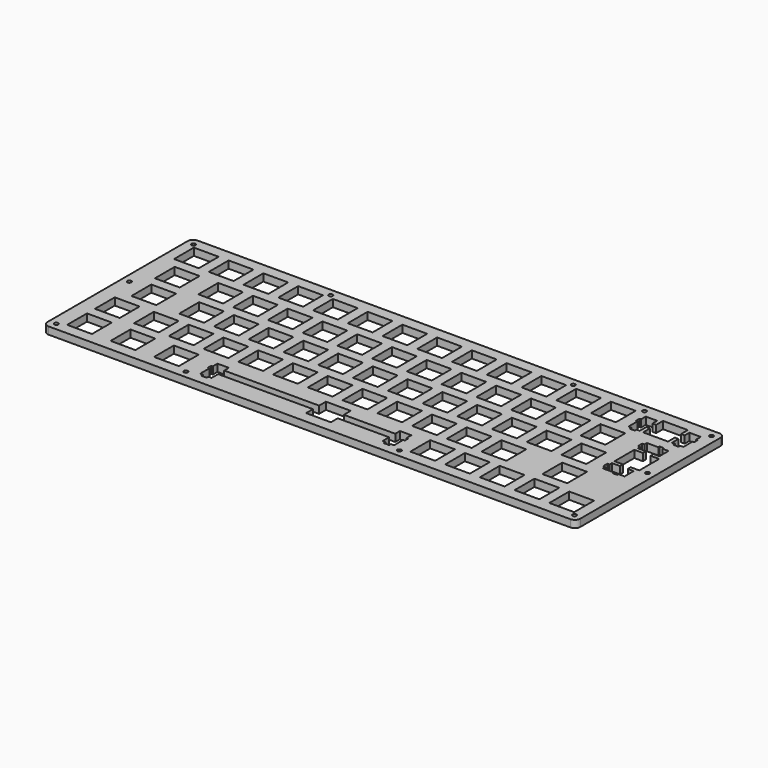
from build123d import *

# Parameters (mm, degrees)
F0_R     = 1.1
F1_DEPTH = 4
F2_W     = 13.60124
F2_H     = 13.59991
F2_W_2   = 13.5996
F2_W_3   = 13.601
F2_W_4   = 13.6
F2_H_2   = 13.5999
F2_W_5   = 13.5997
F2_W_6   = 13.599
F2_W_7   = 13.5998
F2_H_3   = 13.6
F2_W_8   = 13.5995
F2_W_9   = 13.59989
F2_W_10  = 13.5983
F2_W_11  = 13.5982
F2_W_12  = 13.59992
F2_W_13  = 13.5986
F3_DEPTH = 4.001


with BuildPart() as f1:
    # F0 (on Top) → F1 (new body)
    with BuildSketch(Plane.XY):
        with BuildLine():
            Line((143, 51), (-143, 51))
            ThreePointArc((-143, 51), (-145.12132, 50.12132), (-146, 48))
            Line((-146, 48), (-146, -48))
            ThreePointArc((-146, -48), (-145.12132, -50.12132), (-143, -51))
            Line((-143, -51), (143, -51))
            ThreePointArc((143, -51), (145.12132, -50.12132), (146, -48))
            Line((146, -48), (146, 48))
            ThreePointArc((146, 48), (145.12132, 50.12132), (143, 51))
        make_face()
        with Locations((-142, -47)):
            Circle(F0_R, mode=Mode.SUBTRACT)
        with Locations((-71, -47)):
            Circle(F0_R, mode=Mode.SUBTRACT)
        with Locations((46, -47)):
            Circle(F0_R, mode=Mode.SUBTRACT)
        with Locations((142, -47)):
            Circle(F0_R, mode=Mode.SUBTRACT)
        with Locations((-142, 3)):
            Circle(F0_R, mode=Mode.SUBTRACT)
        with Locations((-142, 47)):
            Circle(F0_R, mode=Mode.SUBTRACT)
        with Locations((-66.825, 47)):
            Circle(F0_R, mode=Mode.SUBTRACT)
        with Locations((142, 3)):
            Circle(F0_R, mode=Mode.SUBTRACT)
        with Locations((66.175, 47)):
            Circle(F0_R, mode=Mode.SUBTRACT)
        with Locations((105.175, 47)):
            Circle(F0_R, mode=Mode.SUBTRACT)
        with Locations((142, 47)):
            Circle(F0_R, mode=Mode.SUBTRACT)
    extrude(amount=F1_DEPTH)

    # F2 (on face) → F3 (cut, through all)
    with BuildSketch(Plane.XY.offset(4)):
        Polygon((-6.8, -35.999899), (-58.781453, -35.999899), (-58.781453, -32.769699), (-65.032353, -32.769699), (-65.032353, -35.999899), (-65.907153, -35.999899), (-65.907153, -38.400399), (-65.032353, -38.400399), (-65.032353, -44.670469), (-63.356653, -44.670469), (-63.356653, -45.870739), (-60.457153, -45.870739), (-60.457153, -44.670469), (-58.781453, -44.670469), (-58.781453, -40.200129), (-6.8, -40.200129), (-6.8, -44.900609), (6.8, -44.900609), (6.8, -40.200129), (34.967647, -40.200129), (34.967647, -44.670469), (36.643647, -44.670469), (36.643647, -45.870739), (39.542647, -45.870739), (39.542647, -44.670469), (41.218647, -44.670469), (41.218647, -38.400399), (42.093647, -38.400399), (42.093647, -35.999899), (41.218647, -35.999899), (41.218647, -32.769699), (34.967647, -32.769699), (34.967647, -35.999899), (6.8, -35.999899), (6.8, -31.300699), (-6.8, -31.300699), align=None)
        with Locations((-130.968573, -38.100654)):
            Rectangle(F2_W, F2_H)
        with Locations((-107.156853, -38.100654)):
            Rectangle(F2_W_2, F2_H)
        with Locations((-83.343553, -38.100654)):
            Rectangle(F2_W_3, F2_H)
        with Locations((57.150147, -38.100654)):
            Rectangle(F2_W_3, F2_H)
        with Locations((76.200647, -38.100654)):
            Rectangle(F2_W_4, F2_H)
        with Locations((95.250647, -38.100654)):
            Rectangle(F2_W_4, F2_H)
        with Locations((114.300647, -38.100654)):
            Rectangle(F2_W_4, F2_H)
        with Locations((133.350647, -38.100654)):
            Rectangle(F2_W_4, F2_H)
        with Locations((-130.968573, -19.050649)):
            Rectangle(F2_W, F2_H_2)
        with Locations((-109.538103, -19.050649)):
            Rectangle(F2_W_5, F2_H_2)
        with Locations((-90.488053, -19.050649)):
            Rectangle(F2_W_2, F2_H_2)
        with Locations((-71.438053, -19.050649)):
            Rectangle(F2_W_2, F2_H_2)
        with Locations((-52.388053, -19.050649)):
            Rectangle(F2_W_2, F2_H_2)
        with Locations((-33.337853, -19.050649)):
            Rectangle(F2_W_6, F2_H_2)
        with Locations((-14.287853, -19.050649)):
            Rectangle(F2_W_6, F2_H_2)
        with Locations((4.762147, -19.050649)):
            Rectangle(F2_W_6, F2_H_2)
        with Locations((23.812147, -19.050649)):
            Rectangle(F2_W_6, F2_H_2)
        with Locations((42.862147, -19.050649)):
            Rectangle(F2_W_6, F2_H_2)
        with Locations((61.912147, -19.050649)):
            Rectangle(F2_W_6, F2_H_2)
        with Locations((80.962147, -19.050649)):
            Rectangle(F2_W_6, F2_H_2)
        with Locations((114.300647, -19.050649)):
            Rectangle(F2_W_4, F2_H_2)
        with Locations((-126.206753, -0.000699)):
            Rectangle(F2_W_7, F2_H_3)
        with Locations((-100.013053, -0.000699)):
            Rectangle(F2_W_2, F2_H_3)
        with Locations((-80.963053, -0.000699)):
            Rectangle(F2_W_2, F2_H_3)
        with Locations((-61.913053, -0.000699)):
            Rectangle(F2_W_2, F2_H_3)
        with Locations((-42.863103, -0.000699)):
            Rectangle(F2_W_8, F2_H_3)
        with Locations((-23.812853, -0.000699)):
            Rectangle(F2_W_6, F2_H_3)
        with Locations((-4.762853, -0.000699)):
            Rectangle(F2_W_6, F2_H_3)
        with Locations((14.287147, -0.000699)):
            Rectangle(F2_W_6, F2_H_3)
        with Locations((33.337147, -0.000699)):
            Rectangle(F2_W_6, F2_H_3)
        with Locations((52.387147, -0.000699)):
            Rectangle(F2_W_6, F2_H_3)
        with Locations((71.437147, -0.000699)):
            Rectangle(F2_W_6, F2_H_3)
        with Locations((90.487147, -0.000699)):
            Rectangle(F2_W_6, F2_H_3)
        with Locations((109.537147, -0.000699)):
            Rectangle(F2_W_6, F2_H_3)
        Polygon((133.068647, 25.474601), (130.668647, 25.474601), (130.668647, 24.599401), (124.398647, 24.599401), (124.398647, 22.925101), (123.198647, 22.925101), (123.198647, 20.024201), (124.398647, 20.024201), (124.398647, 18.349901), (128.868647, 18.349901), (128.868647, 16.324301), (124.168647, 16.324301), (124.168647, 2.724301), (128.868647, 2.724301), (128.868647, 0.700101), (124.398647, 0.700101), (124.398647, -0.975599), (123.198647, -0.975599), (123.198647, -3.875099), (124.398647, -3.875099), (124.398647, -5.550799), (130.668647, -5.550799), (130.668647, -6.425699), (133.068647, -6.425699), (133.068647, -5.550799), (136.297647, -5.550799), (136.297647, 0.700101), (133.068647, 0.700101), (133.068647, 2.724301), (137.767647, 2.724301), (137.767647, 16.324301), (133.068647, 16.324301), (133.068647, 18.349901), (136.297647, 18.349901), (136.297647, 24.599401), (133.068647, 24.599401), align=None)
        with Locations((-128.587998, 19.049301)):
            Rectangle(F2_W_9, F2_H_3)
        with Locations((-104.774903, 19.049301)):
            Rectangle(F2_W_10, F2_H_3)
        with Locations((-85.724853, 19.049301)):
            Rectangle(F2_W_11, F2_H_3)
        with Locations((-66.674853, 19.049301)):
            Rectangle(F2_W_11, F2_H_3)
        with Locations((-47.625353, 19.049301)):
            Rectangle(F2_W_4, F2_H_3)
        with Locations((-28.575353, 19.049301)):
            Rectangle(F2_W_4, F2_H_3)
        with Locations((-9.524853, 19.049301)):
            Rectangle(F2_W_3, F2_H_3)
        with Locations((9.525147, 19.049301)):
            Rectangle(F2_W_3, F2_H_3)
        with Locations((28.575647, 19.049301)):
            Rectangle(F2_W_4, F2_H_3)
        with Locations((47.625647, 19.049301)):
            Rectangle(F2_W_4, F2_H_3)
        with Locations((66.675647, 19.049301)):
            Rectangle(F2_W_4, F2_H_3)
        with Locations((85.725647, 19.049301)):
            Rectangle(F2_W_4, F2_H_3)
        with Locations((104.775147, 19.049301)):
            Rectangle(F2_W_6, F2_H_3)
        Polygon((130.625647, 44.899301), (117.025647, 44.899301), (117.025647, 40.200301), (114.999647, 40.200301), (114.999647, 43.430301), (108.750647, 43.430301), (108.750647, 40.200301), (107.875647, 40.200301), (107.875647, 37.799601), (108.750647, 37.799601), (108.750647, 31.529701), (110.425647, 31.529701), (110.425647, 30.329201), (113.324647, 30.329201), (113.324647, 31.529701), (114.999647, 31.529701), (114.999647, 35.999701), (117.025647, 35.999701), (117.025647, 31.299301), (130.625647, 31.299301), (130.625647, 35.999701), (132.650647, 35.999701), (132.650647, 31.529701), (134.325647, 31.529701), (134.325647, 30.329201), (137.224647, 30.329201), (137.224647, 31.529701), (138.900647, 31.529701), (138.900647, 37.799601), (139.775647, 37.799601), (139.775647, 40.200301), (138.900647, 40.200301), (138.900647, 43.430301), (132.650647, 43.430301), (132.650647, 40.200301), (130.625647, 40.200301), align=None)
        with Locations((-133.349113, 38.099301)):
            Rectangle(F2_W_12, F2_H_3)
        with Locations((-114.299203, 38.099301)):
            Rectangle(F2_W_5, F2_H_3)
        with Locations((-95.249153, 38.099301)):
            Rectangle(F2_W_2, F2_H_3)
        with Locations((-76.199153, 38.099301)):
            Rectangle(F2_W_2, F2_H_3)
        with Locations((-57.149153, 38.099301)):
            Rectangle(F2_W_2, F2_H_3)
        with Locations((-38.099653, 38.099301)):
            Rectangle(F2_W_13, F2_H_3)
        with Locations((-19.049353, 38.099301)):
            Rectangle(F2_W_4, F2_H_3)
        with Locations((0.000647, 38.099301)):
            Rectangle(F2_W_4, F2_H_3)
        with Locations((19.050647, 38.099301)):
            Rectangle(F2_W_4, F2_H_3)
        with Locations((38.100647, 38.099301)):
            Rectangle(F2_W_4, F2_H_3)
        with Locations((57.150647, 38.099301)):
            Rectangle(F2_W_4, F2_H_3)
        with Locations((76.200647, 38.099301)):
            Rectangle(F2_W_4, F2_H_3)
        with Locations((95.250647, 38.099301)):
            Rectangle(F2_W_4, F2_H_3)
    extrude(amount=-F3_DEPTH, mode=Mode.SUBTRACT)


solid = f1.part
